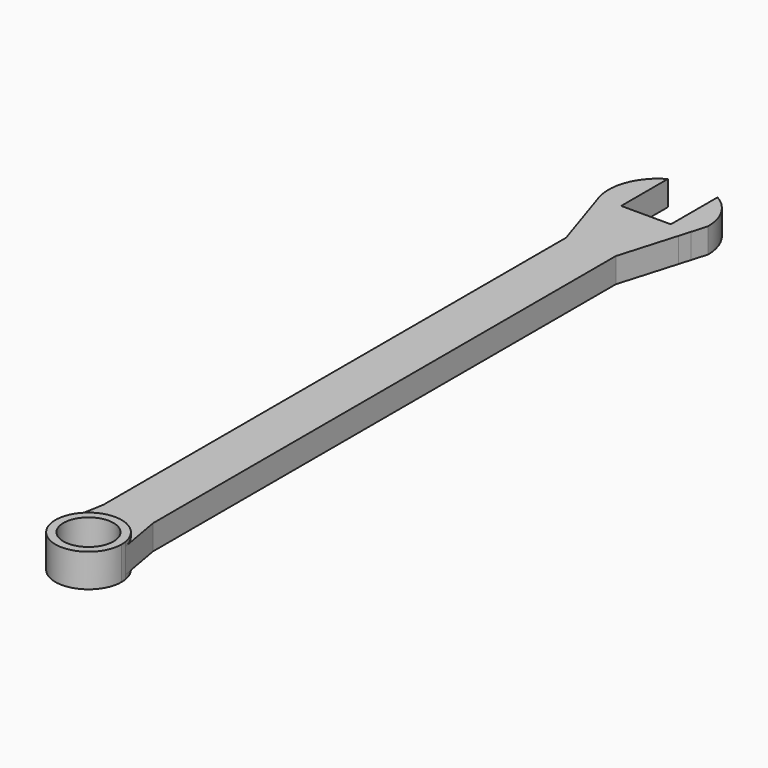
from build123d import *

# Parameters (mm, degrees)
F1_DEPTH = 1.5875
F2_DEPTH = 2.38125
F0_R     = 4.8006
F3_DEPTH = 3.175


with BuildPart() as f1:
    # F0 (on Top) → F1 (new body, symmetric)
    with BuildSketch(Plane.XY):
        with BuildLine():
            Line((0, 110.85698), (0, 0))
            Line((0, 0), (-1.490273, -8.418053))
            ThreePointArc((-1.490273, -8.418053), (4.7625, -3.175), (11.015273, -8.418053))
            Line((11.015273, -8.418053), (9.525, 0))
            Line((9.525, 0), (9.525, 110.85698))
            Line((9.525, 110.85698), (12.762214, 121.829874))
            Line((12.762214, 121.829874), (13.417772, 124.051962))
            Line((13.417772, 124.051962), (14.2875, 127))
            ThreePointArc((14.2875, 127), (13.011392, 131.7625), (9.525, 135.248892))
            Line((9.525, 135.248892), (9.525, 124.051962))
            Line((9.525, 124.051962), (0, 124.051962))
            Line((0, 124.051962), (0, 135.248892))
            ThreePointArc((0, 135.248892), (-4.13073, 130.411172), (-4.294801, 124.051962))
            Line((-4.294801, 124.051962), (0, 110.85698))
        make_face()
    extrude(amount=F1_DEPTH, both=True)

    # F0 (on Top) → F2 (join, symmetric)
    with BuildSketch(Plane.XY):
        with BuildLine():
            Line((0, 110.85698), (0, 0))
            Line((0, 0), (-1.490273, -8.418053))
            ThreePointArc((-1.490273, -8.418053), (4.7625, -3.175), (11.015273, -8.418053))
            Line((11.015273, -8.418053), (9.525, 0))
            Line((9.525, 0), (9.525, 110.85698))
            Line((9.525, 110.85698), (12.762214, 121.829874))
            Line((12.762214, 121.829874), (13.417772, 124.051962))
            Line((13.417772, 124.051962), (14.2875, 127))
            ThreePointArc((14.2875, 127), (13.011392, 131.7625), (9.525, 135.248892))
            Line((9.525, 135.248892), (9.525, 124.051962))
            Line((9.525, 124.051962), (0, 124.051962))
            Line((0, 124.051962), (0, 135.248892))
            ThreePointArc((0, 135.248892), (-4.13073, 130.411172), (-4.294801, 124.051962))
            Line((-4.294801, 124.051962), (0, 110.85698))
        make_face()
    extrude(amount=F2_DEPTH, both=True)

    # F0 (on Top) → F3 (join, symmetric)
    with BuildSketch(Plane.XY):
        with BuildLine():
            ThreePointArc((11.015273, -8.418053), (4.7625, -3.175), (-1.490273, -8.418053))
            ThreePointArc((-1.490273, -8.418053), (4.206896, -15.850647), (11.1125, -9.525))
            ThreePointArc((11.1125, -9.525), (11.088147, -8.969396), (11.015273, -8.418053))
        make_face()
        with Locations((4.7625, -9.525)):
            Circle(F0_R, mode=Mode.SUBTRACT)
    extrude(amount=F3_DEPTH, both=True)


solid = f1.part
